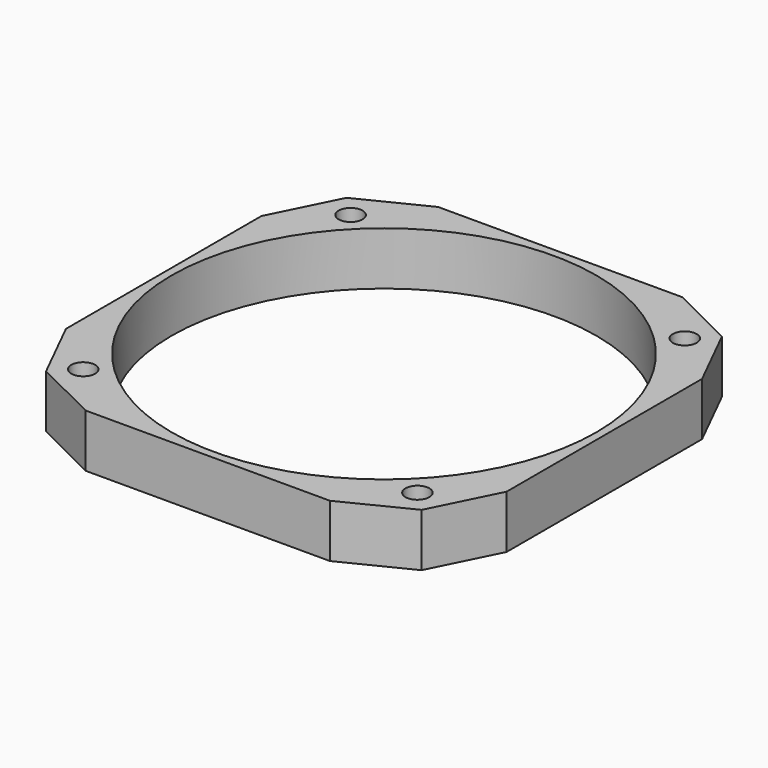
from build123d import *

# Parameters (mm, degrees)
PAD_DEPTH    = 10
SKETCH_R     = 40
SKETCH_R_2   = 2.25
POCKET_DEPTH = 10.001


with BuildPart() as part:
    # Sketch001 → Pad (new body)
    with BuildSketch(Plane.XY):
        Polygon((-23, 41.5), (23, 41.5), (35.355339, 35.355339), (41.5, 23), (41.5, -23), (35.355339, -35.355339), (23, -41.5), (-23, -41.5), (-35.355339, -35.355339), (-41.5, -23), (-41.5, 23), (-35.355339, 35.355339), align=None)
    extrude(amount=PAD_DEPTH)

    # Sketch → Pocket (cut, through all)
    with BuildSketch(Plane.XY):
        Circle(SKETCH_R)
        with Locations((31.466252, 31.466252)):
            Circle(SKETCH_R_2)
        with Locations((-31.466252, 31.466252)):
            Circle(SKETCH_R_2)
        with Locations((31.466252, -31.466252)):
            Circle(SKETCH_R_2)
        with Locations((-31.466252, -31.466252)):
            Circle(SKETCH_R_2)
    extrude(amount=POCKET_DEPTH, mode=Mode.SUBTRACT)


solid = part.part
